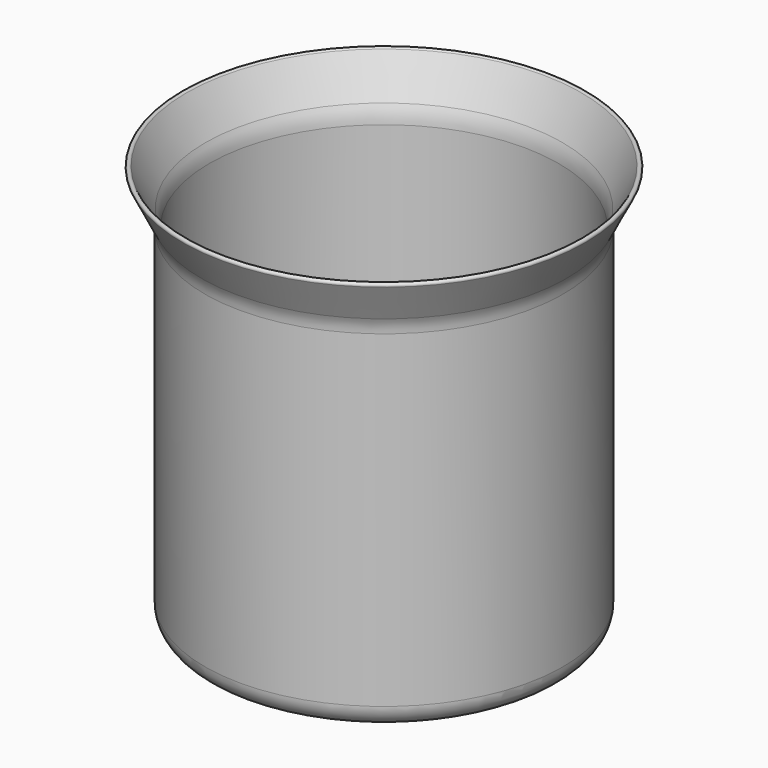
from build123d import *


with BuildPart() as f1:
    # F0 (on Right) → F1 (revolve)
    with BuildSketch(Plane.YZ):
        with BuildLine():
            Line((-70, 0), (0, 0))
            Line((0, 0), (0, 2))
            Line((0, 2), (-70, 2))
            ThreePointArc((-70, 2), (-75.656854, 4.343146), (-78, 10))
            Line((-78, 10), (-78, 156.45898))
            ThreePointArc((-78, 156.45898), (-78.454767, 160.36478), (-79.794738, 164.061611))
            Line((-79.794738, 164.061611), (-88.211146, 180.894427))
            ThreePointArc((-88.211146, 180.894427), (-89.552786, 181.341641), (-90, 180))
            Line((-90, 180), (-81.583592, 163.167184))
            ThreePointArc((-81.583592, 163.167184), (-80.401265, 159.905274), (-80, 156.45898))
            Line((-80, 156.45898), (-80, 10))
            ThreePointArc((-80, 10), (-77.071068, 2.928932), (-70, 0))
        make_face()
    revolve(axis=Axis((0, 0, 41.621631), (0, 0, 1)))


solid = f1.part
